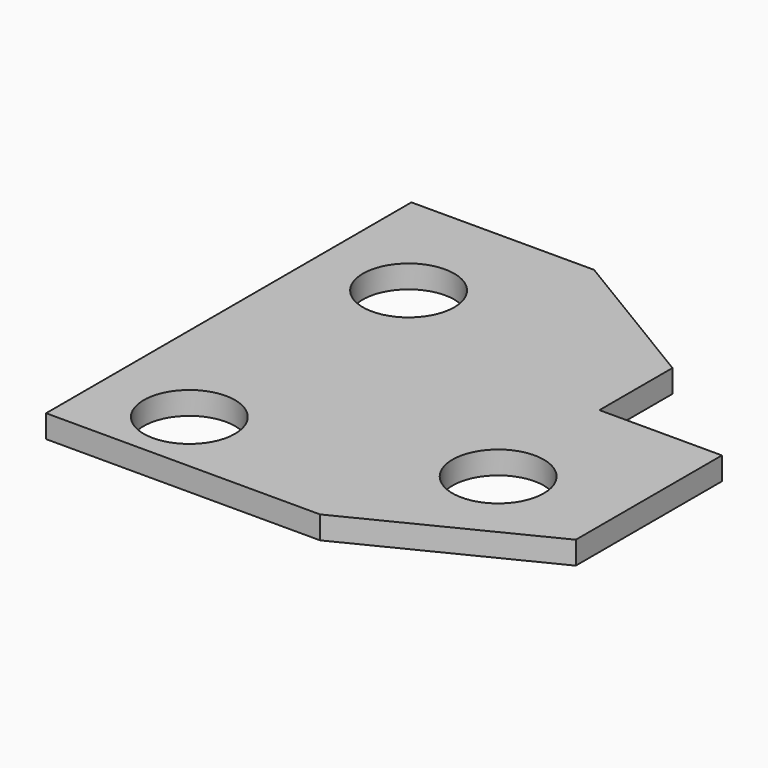
from build123d import *

# Parameters (mm, degrees)
F0_R     = 10
F1_DEPTH = 5


with BuildPart() as f1:
    # F0 (on Top) → F1 (new body)
    with BuildSketch(Plane.XY):
        Polygon((0, 100), (0, 0), (60, 0), (100, 20), (100, 60), (73.176474, 60), (73.176474, 80), (40, 100), align=None)
        with Locations((20, 14.223943)):
            Circle(F0_R, mode=Mode.SUBTRACT)
        with Locations((75, 30)):
            Circle(F0_R, mode=Mode.SUBTRACT)
        with Locations((20, 74.223943)):
            Circle(F0_R, mode=Mode.SUBTRACT)
    extrude(amount=F1_DEPTH)


solid = f1.part
